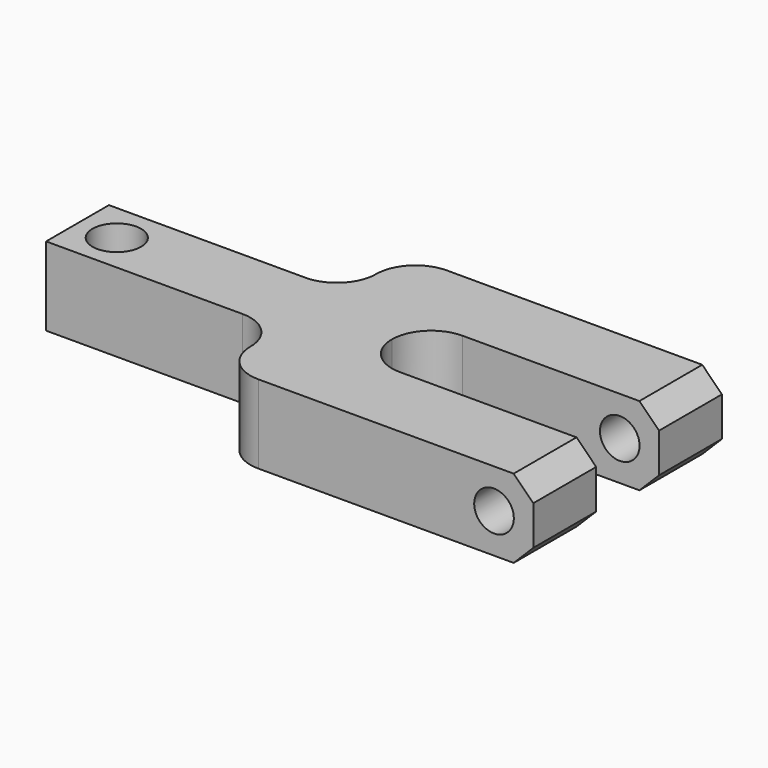
from build123d import *

# Parameters (mm, degrees)
F0_R     = 7.865612
F1_DEPTH = 12.7
F2_R     = 6.403691
F3_DEPTH = 44.45
F4_SIZE  = 6.35
F5_SIZE  = 6.35


with BuildPart() as f1:
    # F0 (on Top) → F1 (new body, symmetric)
    with BuildSketch(Plane.XY):
        with BuildLine():
            Line((-82.702047, -12.7), (-19.202047, -12.7))
            ThreePointArc((-19.202047, -12.7), (-10.221791, -16.419744), (-6.502047, -25.4))
            ThreePointArc((-6.502047, -25.4), (-2.782303, -34.380256), (6.197953, -38.1))
            Line((6.197953, -38.1), (95.097953, -38.1))
            Line((95.097953, -38.1), (95.097953, -12.7))
            Line((95.097953, -12.7), (31.597953, -12.7))
            ThreePointArc((31.597953, -12.7), (22.617697, -8.980256), (18.897953, 0))
            ThreePointArc((18.897953, 0), (22.617697, 8.980256), (31.597953, 12.7))
            Line((31.597953, 12.7), (95.097953, 12.7))
            Line((95.097953, 12.7), (95.097953, 38.1))
            Line((95.097953, 38.1), (6.197953, 38.1))
            ThreePointArc((6.197953, 38.1), (-2.782303, 34.380256), (-6.502047, 25.4))
            ThreePointArc((-6.502047, 25.4), (-10.221791, 16.419744), (-19.202047, 12.7))
            Line((-19.202047, 12.7), (-82.702047, 12.7))
            Line((-82.702047, 12.7), (-82.702047, -12.7))
        make_face()
        with Locations((-70.002047, 0)):
            Circle(F0_R, mode=Mode.SUBTRACT)
    extrude(amount=F1_DEPTH, both=True)

    # F2 (on Front) → F3 (cut, symmetric)
    with BuildSketch(Plane.XZ):
        with Locations((82.397953, 0)):
            Circle(F2_R)
    extrude(amount=F3_DEPTH, both=True, mode=Mode.SUBTRACT)

    # F4
    f4_edges = [f1.edges().sort_by_distance(p)[0] for p in [
        (95.097953, -25.4, 12.7),
        (95.097953, -25.4, -12.7),
    ]]
    chamfer(f4_edges, length=F4_SIZE)

    # F5
    f5_edges = [f1.edges().sort_by_distance(p)[0] for p in [
        (95.097953, 25.4, 12.7),
        (95.097953, 25.4, -12.7),
    ]]
    chamfer(f5_edges, length=F5_SIZE)


solid = f1.part
